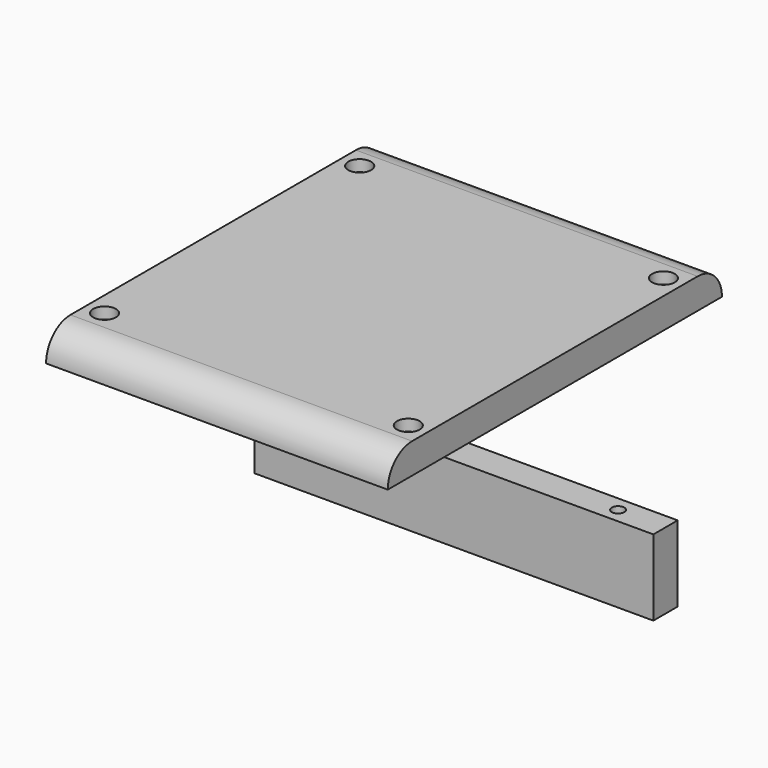
from build123d import *

# Parameters (mm, degrees)
F1_DEPTH       = 90
F3_D           = 2.5
F3_CBORE_D     = 6
F3_CBORE_DEPTH = 3
F4_W           = 8
F4_H           = 20
F5_DEPTH       = 105
F7_D           = 3.3


with BuildPart() as f1:
    # F0 (on Right) → F1 (new body)
    with BuildSketch(Plane.YZ):
        with BuildLine():
            Line((61.2962363439, 24.8076301803), (-32.7037636561, 24.8076301803))
            ThreePointArc((-32.7037636561, 24.8076301803), (-38.3606179056, 22.4644844298), (-40.7037636561, 16.8076301803))
            Line((-40.7037636561, 16.8076301803), (69.2962363439, 16.8076301803))
            ThreePointArc((69.2962363439, 16.8076301803), (66.9530905934, 22.4644844298), (61.2962363439, 24.8076301803))
        make_face()
    extrude(amount=F1_DEPTH)

    # F3 (through all)
    with Locations(Plane.XY.offset(24.8076301803)):
        with Locations((5, 56.2962363439), (85, 56.2962363439), (85, -27.7037636561), (5, -27.7037636561)):
            CounterBoreHole(F3_D / 2, F3_CBORE_D / 2, F3_CBORE_DEPTH)


with BuildPart() as f5:
    # F4 (on Right) → F5 (new body)
    with BuildSketch(Plane.YZ):
        with Locations((31.9756090045, -26.6022793886)):
            Rectangle(F4_W, F4_H)
    extrude(amount=F5_DEPTH)

    # F7 (through all)
    with Locations(Plane.XY.offset(-16.6022793886)):
        with Locations((12.5, 31.9756090045), (92.5, 31.9756090045)):
            Hole(F7_D / 2)


solid = Compound([f1.part, f5.part])
